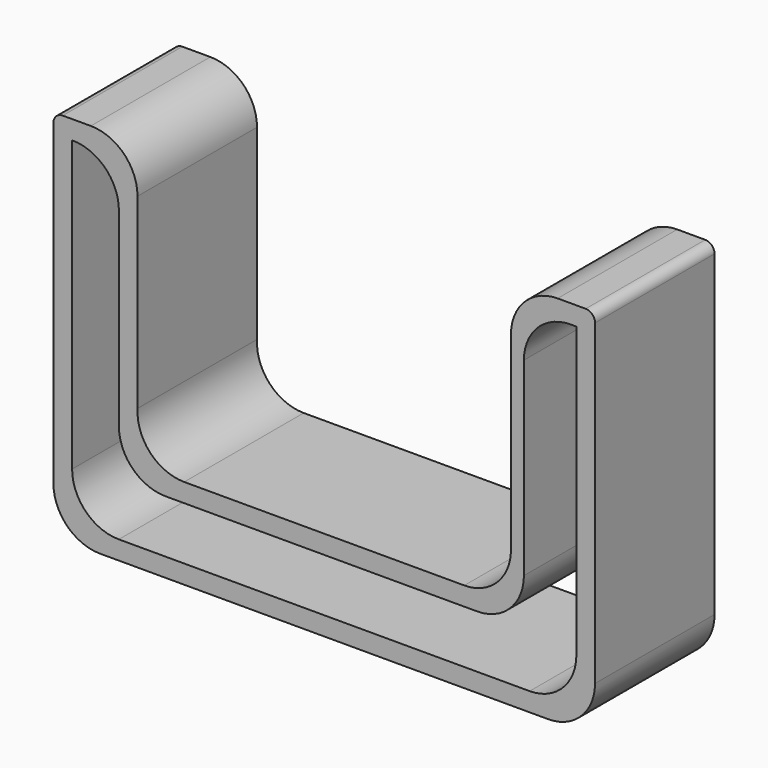
from build123d import *

# Parameters (mm, degrees)
F1_DEPTH = 40
F2_R     = 5


with BuildPart() as f1:
    # F0 (on Front) → F1 (new body, symmetric)
    with BuildSketch(Plane.XZ):
        with BuildLine():
            Line((0, 0), (-75, 0))
            ThreePointArc((-75, 0), (-93.22257, 7.88457), (-99.95097, 26.564963))
            Line((-99.95097, 26.564963), (-99.990197, 126.564956))
            ThreePointArc((-99.990197, 126.564956), (-107.315993, 144.236285), (-124.990195, 151.555149))
            Line((-124.990195, 151.555149), (-145, 151.555149))
            Line((-145, 151.555149), (-145, -23.444851))
            ThreePointArc((-145, -23.444851), (-137.67767, -41.122521), (-120, -48.444851))
            Line((-120, -48.444851), (120, -48.444851))
            ThreePointArc((120, -48.444851), (137.67767, -41.122521), (145, -23.444851))
            Line((145, -23.444851), (145, 151.555149))
            Line((145, 151.555149), (124.990195, 151.555149))
            ThreePointArc((124.990195, 151.555149), (107.315993, 144.236285), (99.990197, 126.564956))
            Line((99.990197, 126.564956), (99.95097, 26.564963))
            ThreePointArc((99.95097, 26.564963), (93.22257, 7.88457), (75, 0))
            Line((75, 0), (0, 0))
        make_face()
        with BuildLine():
            Line((-84.95097, -10), (0, -10))
            Line((0, -10), (81.913937, -10))
            ThreePointArc((81.913937, -10), (99.591607, -2.67767), (106.913937, 15))
            Line((106.913937, 15), (106.913937, 116.555149))
            ThreePointArc((106.913937, 116.555149), (114.236268, 134.232818), (131.913937, 141.555149))
            Line((131.913937, 141.555149), (135, 141.555149))
            Line((135, 141.555149), (135, -13.444851))
            ThreePointArc((135, -13.444851), (127.67767, -31.122521), (110, -38.444851))
            Line((110, -38.444851), (-110, -38.444851))
            ThreePointArc((-110, -38.444851), (-127.67767, -31.122521), (-135, -13.444851))
            Line((-135, -13.444851), (-135, 141.555149))
            Line((-135, 141.555149), (-134.95097, 141.555149))
            ThreePointArc((-134.95097, 141.555149), (-117.2733, 134.232818), (-109.95097, 116.555149))
            Line((-109.95097, 116.555149), (-109.95097, 15))
            ThreePointArc((-109.95097, 15), (-102.628639, -2.67767), (-84.95097, -10))
        make_face(mode=Mode.SUBTRACT)
    extrude(amount=F1_DEPTH, both=True)

    # F2
    f2_edges = [f1.edges().sort_by_distance(p)[0] for p in [
        (-145, 0, 151.555149),
        (145, 0, 151.555149),
    ]]
    fillet(f2_edges, radius=F2_R)


solid = f1.part
